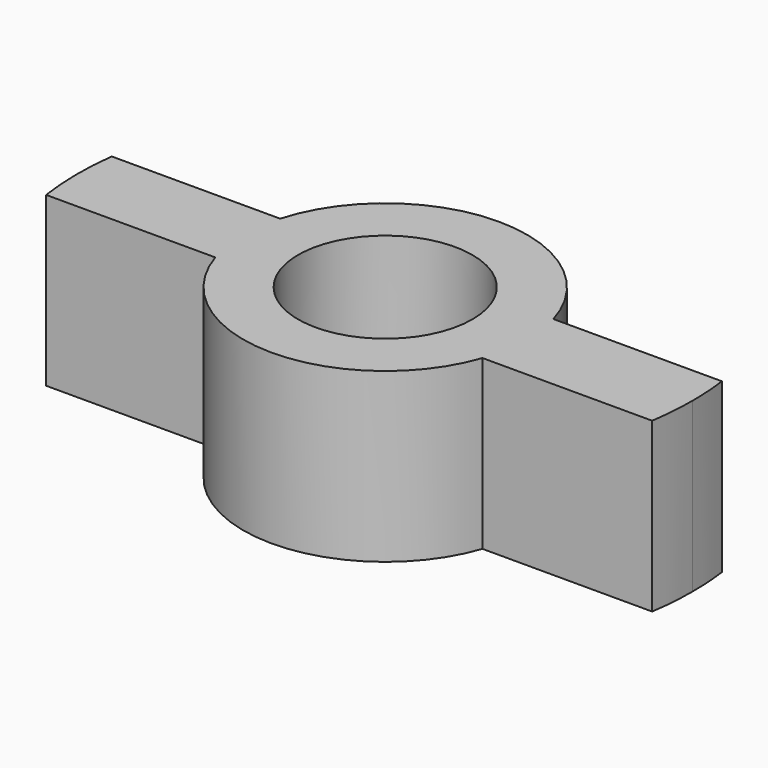
from build123d import *

# Parameters (mm, degrees)
F0_R     = 13.182976
F1_DEPTH = 25.4


with BuildPart() as f1:
    # F0 (on Top) → F1 (new body)
    with BuildSketch(Plane.XY):
        with BuildLine():
            Line((-20.622671, 5.921611), (-46.087552, 5.921611))
            ThreePointArc((-46.087552, 5.921611), (-46.465178, -0.339327), (-45.996152, -6.594082))
            Line((-45.996152, -6.594082), (-20.417594, -6.594082))
            ThreePointArc((-20.417594, -6.594082), (-21.453123, -0.351523), (-20.622671, 5.921611))
        make_face()
        with BuildLine():
            ThreePointArc((45.938806, -6.982408), (46.334326, -3.501157), (46.466417, 0))
            ThreePointArc((46.466417, 0), (46.367982, 3.022931), (46.073096, 6.033054))
            Line((46.073096, 6.033054), (20.590345, 6.033054))
            ThreePointArc((20.590345, 6.033054), (21.238486, 3.047421), (21.456003, 0))
            ThreePointArc((21.456003, 0), (21.162007, -3.539706), (20.288076, -6.982408))
            Line((20.288076, -6.982408), (45.938806, -6.982408))
        make_face()
        with BuildLine():
            ThreePointArc((21.456003, 0), (21.238486, 3.047421), (20.590345, 6.033054))
            ThreePointArc((20.590345, 6.033054), (-0.058019, 21.455924), (-20.622671, 5.921611))
            ThreePointArc((-20.622671, 5.921611), (-21.453123, -0.351523), (-20.417594, -6.594082))
            ThreePointArc((-20.417594, -6.594082), (-0.204678, -21.455026), (20.288076, -6.982408))
            ThreePointArc((20.288076, -6.982408), (21.162007, -3.539706), (21.456003, 0))
        make_face()
        Circle(F0_R, mode=Mode.SUBTRACT)
    extrude(amount=F1_DEPTH)


solid = f1.part
